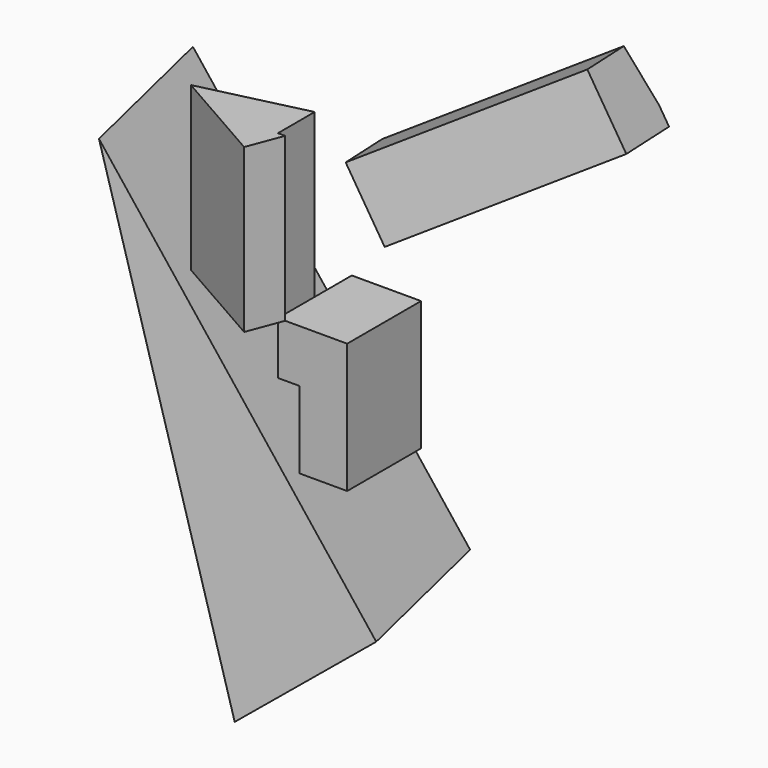
from build123d import *

# Parameters (mm, degrees)
F1_DEPTH = 100
F3_DEPTH = 176.322058
F5_DEPTH = 186.308116
F7_DEPTH = 265.137523


with BuildPart() as f1:
    # F0 (on Front) → F1 (new body)
    with BuildSketch(Plane.XZ):
        Polygon((75, 57.08955), (0, 57.08955), (0, 0), (23.507464, 0), (23.507464, -83.395513), (75, -83.395513), align=None)
    extrude(amount=F1_DEPTH)


with BuildPart() as f3:
    # F2 (on face) → F3 (new body)
    with BuildSketch(Plane.XY.offset(57.08955)):
        Polygon((-112.585858, -77.141583), (-6.436452, -137.689829), (7.841947, -100), (0, -100), (0, -50.277686), align=None)
    extrude(amount=F3_DEPTH)


with BuildPart() as f5:
    # F4 (on face) → F5 (new body)
    with BuildSketch(Plane(origin=(11.350439, -47.569379, 0), x_dir=(-0.972694, -0.232093, 0), z_dir=(-0.232093, 0.972694, 0))):
        Polygon((86.420834, -364.72851), (213.331878, 163.108855), (-45.886248, -258.913845), align=None)
    extrude(amount=F5_DEPTH)


with BuildPart() as f7:
    # F6 (on face) → F7 (new body)
    with BuildSketch(Plane(origin=(-79.908656, -19.066853, -50.460004), x_dir=(-0.167217, 0.980249, -0.105593), z_dir=(0.82883, 0.197766, 0.523382))):
        Polygon((304.183447, 111.631159), (240.065169, 111.631159), (240.065169, 32.519052), (315.065169, 32.519052), (315.065169, 52.755509), align=None)
    extrude(amount=F7_DEPTH)


solid = Compound([f1.part, f3.part, f5.part, f7.part])
